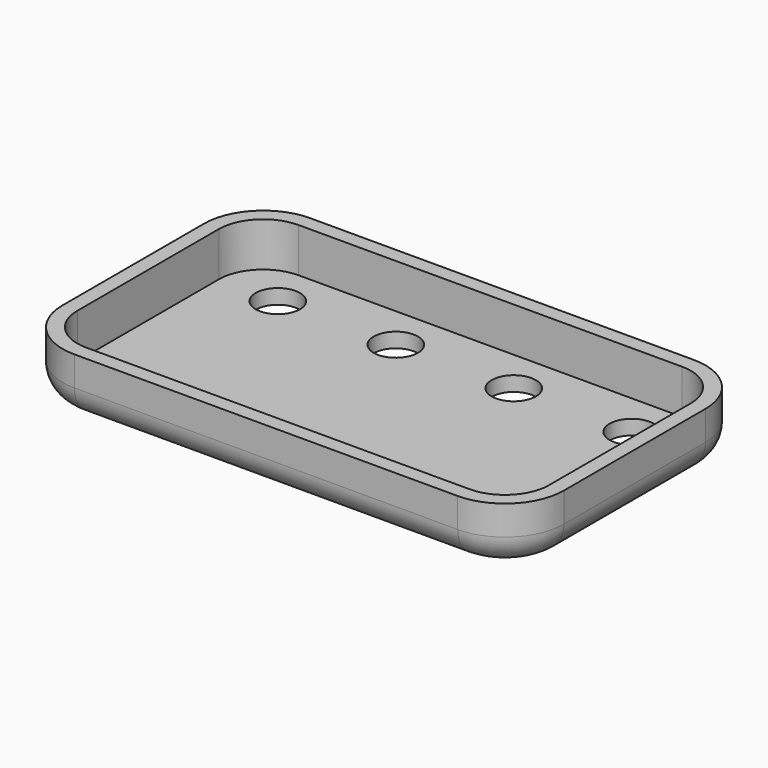
from build123d import *

# Parameters (mm, degrees)
F4_DEPTH = 5.08
F5_T     = -1.27
F3_R     = 1.524
F6_DEPTH = 25.4
F7_R     = 1.905
F8_DEPTH = 9.906
F9_R     = 2.54


with BuildPart() as f4:
    # F1 (on Top) → F4 (new body)
    with BuildSketch(Plane.XY):
        with BuildLine():
            ThreePointArc((21.59, 7.62), (20.102102, 11.212102), (16.51, 12.7))
            Line((16.51, 12.7), (-16.51, 12.7))
            ThreePointArc((-16.51, 12.7), (-20.102102, 11.212102), (-21.59, 7.62))
            Line((-21.59, 7.62), (-21.59, -7.62))
            ThreePointArc((-21.59, -7.62), (-20.102102, -11.212102), (-16.51, -12.7))
            Line((-16.51, -12.7), (16.51, -12.7))
            ThreePointArc((16.51, -12.7), (20.102102, -11.212102), (21.59, -7.62))
            Line((21.59, -7.62), (21.59, 7.62))
        make_face()
    extrude(amount=-F4_DEPTH)

    # F5
    f5_openings = [f4.faces().sort_by_distance(p)[0] for p in [
        (0, 0, 0),
    ]]
    offset(amount=F5_T, openings=f5_openings)

    # F3 (on offset) → F6 (cut)
    with BuildSketch(Plane.XY.offset(-7.62)):
        with Locations((15.24, -7.62)):
            Circle(F3_R)
        with Locations((15.24, 7.62)):
            Circle(F3_R)
        with Locations((5.08, -7.62)):
            Circle(F3_R)
        with Locations((-5.08, -7.62)):
            Circle(F3_R)
        with Locations((-15.24, -7.62)):
            Circle(F3_R)
        with Locations((5.08, 7.62)):
            Circle(F3_R)
        with Locations((-5.08, 7.62)):
            Circle(F3_R)
        with Locations((-15.24, 7.62)):
            Circle(F3_R)
    extrude(amount=-F6_DEPTH, mode=Mode.SUBTRACT)

    # F7 (on face) → F8 (cut)
    with BuildSketch(Plane.XY):
        with Locations((15.24, -7.62)):
            Circle(F7_R)
        with Locations((5.08, -7.62)):
            Circle(F7_R)
        with Locations((-5.08, -7.62)):
            Circle(F7_R)
        with Locations((-15.24, -7.62)):
            Circle(F7_R)
        with Locations((15.24, 7.62)):
            Circle(F7_R)
        with Locations((5.08, 7.62)):
            Circle(F7_R)
        with Locations((-5.08, 7.62)):
            Circle(F7_R)
        with Locations((-15.24, 7.62)):
            Circle(F7_R)
    extrude(amount=-F8_DEPTH, mode=Mode.SUBTRACT)

    # F9
    f9_edges = [f4.edges().sort_by_distance(p)[0] for p in [
        (0, -12.7, -5.08),
    ]]
    fillet(f9_edges, radius=F9_R)


solid = f4.part
